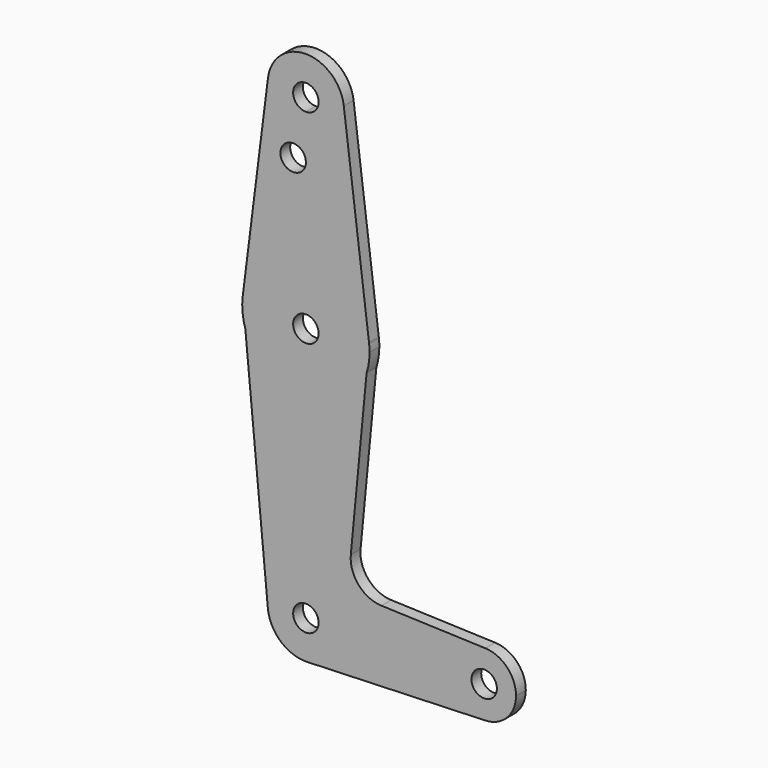
from build123d import *

# Parameters (mm, degrees)
F0_R     = 3.175
F1_DEPTH = 3.048


with BuildPart() as f1:
    # F0 (on Front) → F1 (new body)
    with BuildSketch(Plane.XZ):
        with BuildLine():
            ThreePointArc((3.175, 72.352039), (-2.245064, 74.597103), (0, 69.177039))
            ThreePointArc((0, 69.177039), (2.245064, 70.106975), (3.175, 72.352039))
        make_face()
        with BuildLine():
            ThreePointArc((0, 62.827039), (6.735192, 65.616847), (9.525, 72.352039))
            ThreePointArc((9.525, 72.352039), (9.506309, 72.948459), (9.450309, 73.542539))
            ThreePointArc((9.450309, 73.542539), (6.3e-05, 81.877039), (-9.450293, 73.542664))
            ThreePointArc((-9.450293, 73.542664), (-7.14375, 66.051844), (0, 62.827039))
        make_face()
        with BuildLine():
            ThreePointArc((3.175, 72.352039), (2.245064, 70.106975), (0, 69.177039))
            ThreePointArc((0, 69.177039), (-2.245064, 74.597103), (3.175, 72.352039))
        make_face(mode=Mode.SUBTRACT)
        with BuildLine():
            ThreePointArc((9.450309, 73.542539), (9.506309, 72.948459), (9.525, 72.352039))
            ThreePointArc((9.525, 72.352039), (6.735192, 65.616847), (0, 62.827039))
            Line((0, 62.827039), (0, 58.079922))
            Line((0, 58.079922), (0, 37.427039))
            ThreePointArc((0, 37.427039), (10.445626, 33.506307), (15.73163, 23.680758))
            Line((15.73163, 23.680758), (9.450309, 73.542539))
        make_face()
        with BuildLine():
            Line((0, 58.079922), (0, 62.827039))
            ThreePointArc((0, 62.827039), (-7.14375, 66.051844), (-9.450293, 73.542664))
            Line((-9.450293, 73.542664), (-15.750488, 23.536414))
            ThreePointArc((-15.750488, 23.536414), (-10.500326, 33.458289), (0, 37.427039))
            Line((0, 37.427039), (0, 58.079922))
        make_face()
        with Locations((-3.174999, 58.079922)):
            Circle(F0_R, mode=Mode.SUBTRACT)
        with BuildLine():
            ThreePointArc((3.175, 21.552039), (2.245064, 23.797103), (0, 24.727039))
            ThreePointArc((0, 24.727039), (-2.245064, 19.306975), (3.175, 21.552039))
        make_face()
        with BuildLine():
            Line((15.768071, 23.391485), (15.73163, 23.680758))
            ThreePointArc((15.73163, 23.680758), (10.445626, 33.506307), (0, 37.427039))
            ThreePointArc((0, 37.427039), (-10.500326, 33.458289), (-15.750488, 23.536414))
            Line((-15.750488, 23.536414), (-15.100703, 16.654653))
            ThreePointArc((-15.100703, 16.654653), (0.055266, 5.677135), (15.134436, 16.759912))
            Line((15.134436, 16.759912), (15.768071, 23.391485))
        make_face()
        with BuildLine():
            ThreePointArc((3.175, 21.552039), (-2.245064, 19.306975), (0, 24.727039))
            ThreePointArc((0, 24.727039), (2.245064, 23.797103), (3.175, 21.552039))
        make_face(mode=Mode.SUBTRACT)
        with BuildLine():
            ThreePointArc((15.768071, 23.391485), (15.750515, 23.536205), (15.73163, 23.680758))
            Line((15.73163, 23.680758), (15.768071, 23.391485))
        make_face()
        with BuildLine():
            Line((-15.100703, 16.654653), (-15.750488, 23.536414))
            ThreePointArc((-15.750488, 23.536414), (-15.804704, 20.059738), (-15.100703, 16.654653))
        make_face()
        with BuildLine():
            ThreePointArc((15.875, 21.552039), (15.848245, 22.473315), (15.768071, 23.391485))
            Line((15.768071, 23.391485), (15.134436, 16.759912))
            ThreePointArc((15.134436, 16.759912), (15.688767, 19.127533), (15.875, 21.552039))
        make_face()
        with BuildLine():
            ThreePointArc((15.134436, 16.759912), (0.055266, 5.677135), (-15.100703, 16.654653))
            Line((-15.100703, 16.654653), (-9.482822, -42.843342))
            ThreePointArc((-9.482822, -42.843342), (-0.448187, -32.433511), (9.525, -41.947961))
            Line((9.525, -41.947961), (36.5125, -41.947961))
            ThreePointArc((36.5125, -41.947961), (38.93809, -36.236328), (44.732405, -34.015486))
            Line((44.732405, -34.015486), (18.83373, -33.093463))
            ThreePointArc((18.83373, -33.093463), (13.139453, -30.390391), (11.202431, -24.392113))
            Line((11.202431, -24.392113), (15.134436, 16.759912))
        make_face()
        with Locations((0, -41.947961)):
            Circle(F0_R)
        with BuildLine():
            ThreePointArc((9.525, -41.947961), (-0.448187, -32.433511), (-9.482822, -42.843342))
            ThreePointArc((-9.482822, -42.843342), (-6.283785, -49.10615), (0.340686, -51.466866))
            ThreePointArc((0.340686, -51.466866), (6.854585, -48.561605), (9.525, -41.947961))
        make_face()
        with Locations((0, -41.947961)):
            Circle(F0_R, mode=Mode.SUBTRACT)
        with BuildLine():
            Line((36.5125, -41.947961), (9.525, -41.947961))
            ThreePointArc((9.525, -41.947961), (6.854585, -48.561605), (0.340686, -51.466866))
            Line((0.340686, -51.466866), (44.540135, -49.884949))
            ThreePointArc((44.540135, -49.884949), (38.869298, -47.592398), (36.5125, -41.947961))
        make_face()
        with BuildLine():
            ThreePointArc((47.625, -41.947961), (44.45, -38.772961), (41.275, -41.947961))
            ThreePointArc((41.275, -41.947961), (44.45, -45.122961), (47.625, -41.947961))
        make_face()
        with BuildLine():
            ThreePointArc((44.732405, -34.015486), (38.93809, -36.236328), (36.5125, -41.947961))
            ThreePointArc((36.5125, -41.947961), (38.869298, -47.592398), (44.540135, -49.884949))
            ThreePointArc((44.540135, -49.884949), (50.094438, -47.528663), (52.3875, -41.947961))
            ThreePointArc((52.3875, -41.947961), (50.161633, -36.43605), (44.732405, -34.015486))
        make_face()
        with BuildLine():
            ThreePointArc((47.625, -41.947961), (44.45, -45.122961), (41.275, -41.947961))
            ThreePointArc((41.275, -41.947961), (44.45, -38.772961), (47.625, -41.947961))
        make_face(mode=Mode.SUBTRACT)
    extrude(amount=F1_DEPTH)


solid = f1.part
